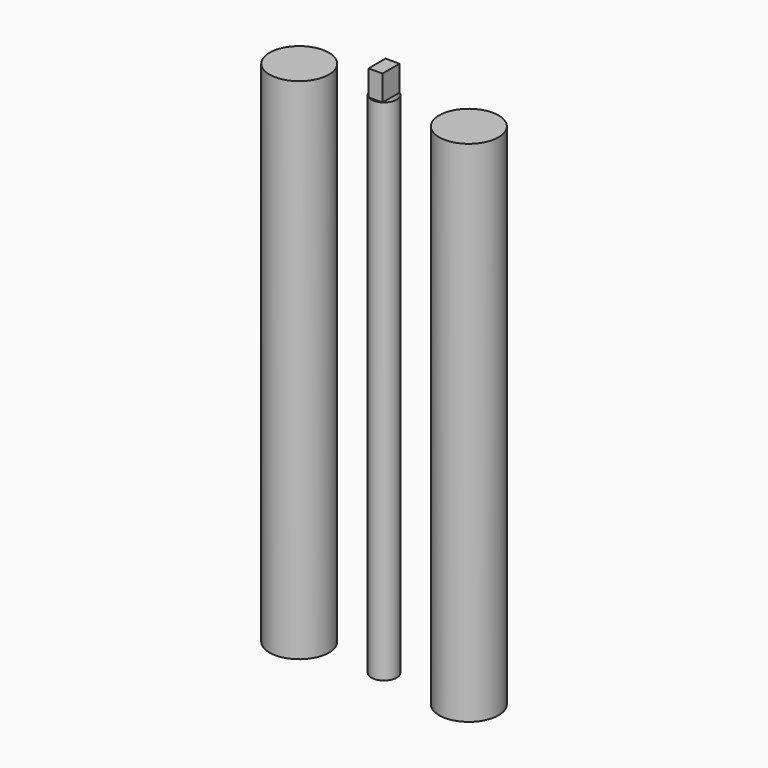
from build123d import *

# Parameters (mm, degrees)
F0_R     = 17.5
F0_R_2   = 7.5
F1_DEPTH = 300
F2_W     = 8.242118
F2_H     = 12.532656
F3_DEPTH = 15


with BuildPart() as f1:
    # F0 (on Top) → F1 (new body)
    with BuildSketch(Plane.XY):
        with Locations((-50, 0)):
            Circle(F0_R)
        Circle(F0_R_2)
        with Locations((50, 0)):
            Circle(F0_R)
    extrude(amount=F1_DEPTH)

    # F2 (on face) → F3 (join)
    with BuildSketch(Plane.XY.offset(300)):
        Rectangle(F2_W, F2_H)
    extrude(amount=F3_DEPTH)


solid = f1.part
